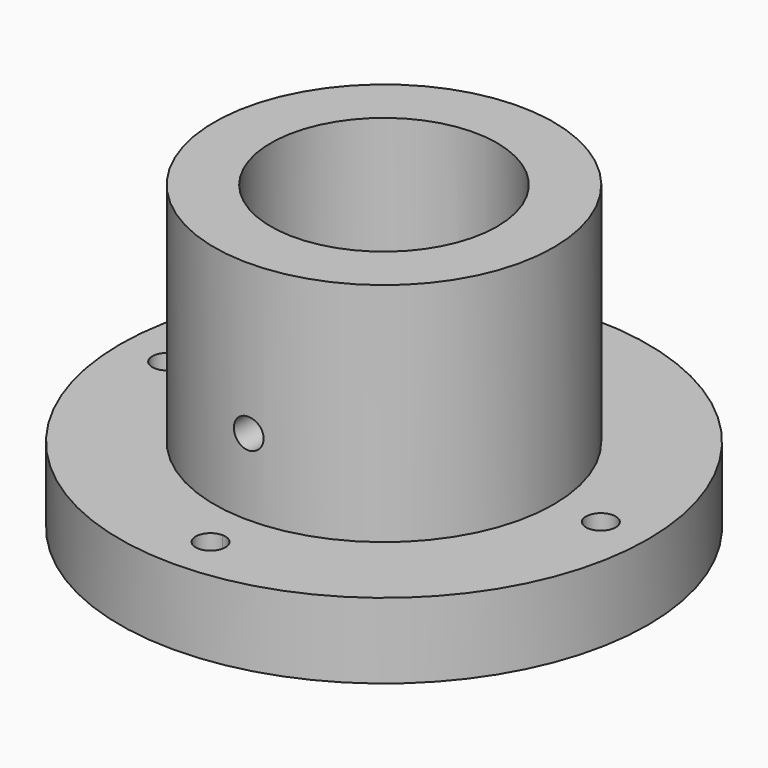
from build123d import *

# Parameters (mm, degrees)
F0_R     = 44.45
F1_DEPTH = 12.7
F2_R     = 28.575
F2_R_2   = 19.05
F3_DEPTH = 38.1
F5_DEPTH = 12.701
F6_R     = 2.5
F7_DEPTH = 44.451
F8_DEPTH = 44.451


with BuildPart() as f1:
    # F0 (on Top) → F1 (new body)
    with BuildSketch(Plane.XY):
        Circle(F0_R)
    extrude(amount=F1_DEPTH)

    # F2 (on face) → F3 (join)
    with BuildSketch(Plane.XY.offset(12.7)):
        Circle(F2_R)
        Circle(F2_R_2, mode=Mode.SUBTRACT)
    extrude(amount=F3_DEPTH)

    # F4 (on face) → F5 (cut, through all)
    with BuildSketch(Plane.XY.offset(12.7)):
        with BuildLine():
            Line((0, -36.5125), (0, -34.0125))
            ThreePointArc((0, -34.0125), (-2.5, -36.5125), (0, -39.0125))
            Line((0, -39.0125), (0, -36.5125))
        make_face()
        with BuildLine():
            ThreePointArc((2.5, -36.5125), (1.767767, -34.744733), (0, -34.0125))
            Line((0, -34.0125), (0, -36.5125))
            Line((0, -36.5125), (0, -39.0125))
            ThreePointArc((0, -39.0125), (1.767767, -38.280267), (2.5, -36.5125))
        make_face()
        with BuildLine():
            ThreePointArc((-39.0125, 0), (-36.5125, -2.5), (-34.0125, 0))
            Line((-34.0125, 0), (-36.5125, 0))
            Line((-36.5125, 0), (-39.0125, 0))
        make_face()
        with BuildLine():
            Line((-36.5125, 0), (-34.0125, 0))
            ThreePointArc((-34.0125, 0), (-36.5125, 2.5), (-39.0125, 0))
            Line((-39.0125, 0), (-36.5125, 0))
        make_face()
        with BuildLine():
            ThreePointArc((0, 39.0125), (-2.5, 36.5125), (0, 34.0125))
            Line((0, 34.0125), (0, 36.5125))
            Line((0, 36.5125), (0, 39.0125))
        make_face()
        with BuildLine():
            Line((34.0125, 0), (36.5125, 0))
            Line((36.5125, 0), (39.0125, 0))
            ThreePointArc((39.0125, 0), (36.5125, 2.5), (34.0125, 0))
        make_face()
        with BuildLine():
            Line((39.0125, 0), (36.5125, 0))
            Line((36.5125, 0), (34.0125, 0))
            ThreePointArc((34.0125, 0), (36.5125, -2.5), (39.0125, 0))
        make_face()
        with BuildLine():
            Line((0, 36.5125), (0, 34.0125))
            ThreePointArc((0, 34.0125), (1.767767, 34.744733), (2.5, 36.5125))
            ThreePointArc((2.5, 36.5125), (1.767767, 38.280267), (0, 39.0125))
            Line((0, 39.0125), (0, 36.5125))
        make_face()
    extrude(amount=-F5_DEPTH, mode=Mode.SUBTRACT)

    # F6 (on Front) → F7 (cut, through all)
    with BuildSketch(Plane.XZ):
        with Locations((0, 25.549719)):
            Circle(F6_R)
    extrude(amount=-F7_DEPTH, mode=Mode.SUBTRACT)

    # F6 (on Front) → F8 (cut, through all)
    with BuildSketch(Plane.XZ):
        with Locations((0, 25.549719)):
            Circle(F6_R)
    extrude(amount=F8_DEPTH, mode=Mode.SUBTRACT)


solid = f1.part
